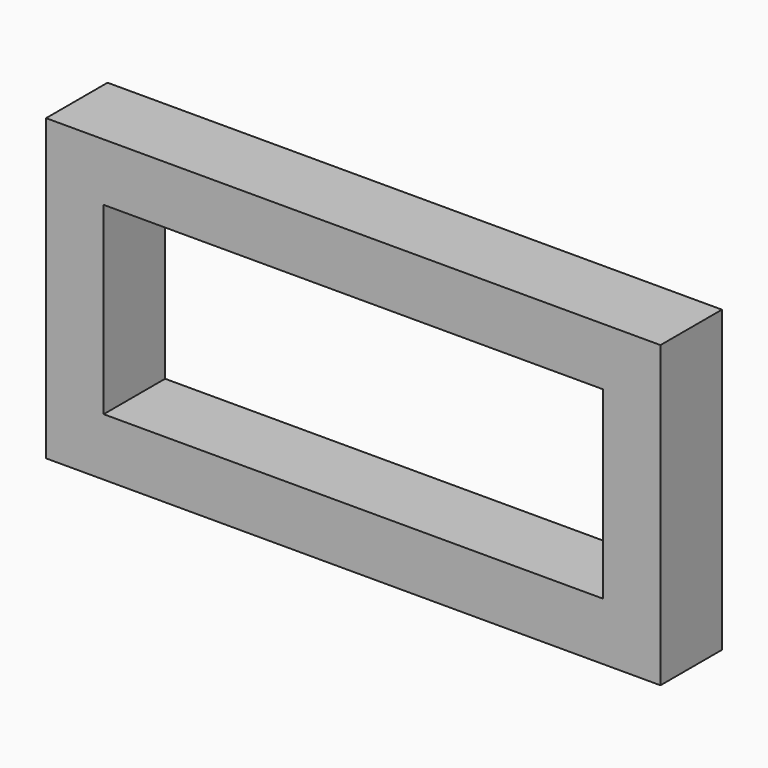
from build123d import *

# Parameters (mm, degrees)
F0_W     = 1.5
F0_H     = 1.5
F0_W_2   = 13
F0_H_2   = 4.8
F1_DEPTH = 2


with BuildPart() as f1:
    # F0 (on Front) → F1 (new body)
    with BuildSketch(Plane.XZ):
        with Locations((7.25, 3.15)):
            Rectangle(F0_W, F0_H)
        with Locations((0, 3.15)):
            Rectangle(F0_W_2, F0_H)
        with Locations((7.25, 0)):
            Rectangle(F0_W, F0_H_2)
        with Locations((-7.25, 3.15)):
            Rectangle(F0_W, F0_H)
        with Locations((7.25, -3.15)):
            Rectangle(F0_W, F0_H)
        with Locations((-7.25, 0)):
            Rectangle(F0_W, F0_H_2)
        with Locations((0, -3.15)):
            Rectangle(F0_W_2, F0_H)
        with Locations((-7.25, -3.15)):
            Rectangle(F0_W, F0_H)
    extrude(amount=F1_DEPTH)


solid = f1.part
